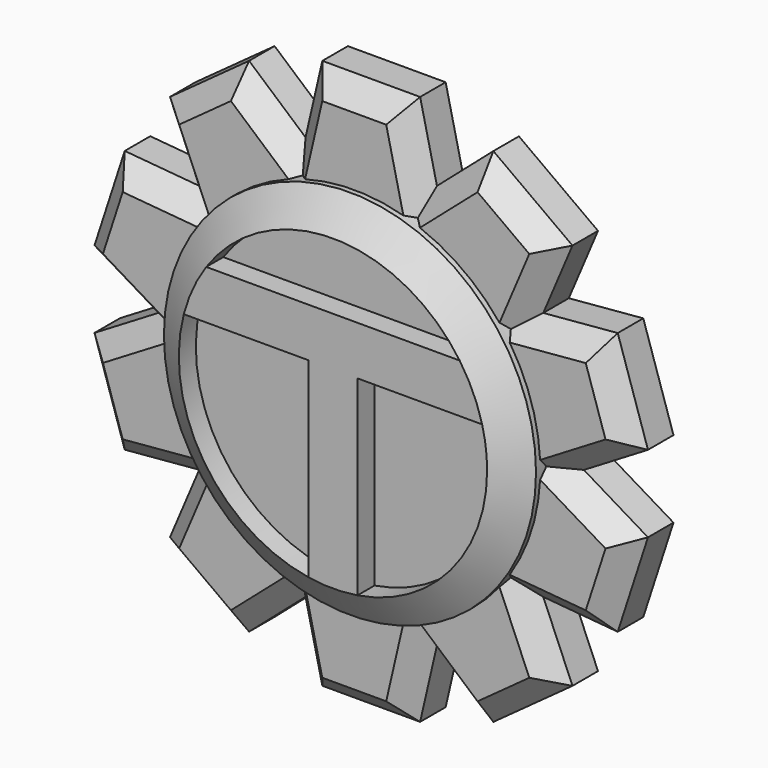
from build123d import *

# Parameters (mm, degrees)
F1_DEPTH = 6.35
F2_SIZE  = 2.54
F3_R     = 22.225
F4_DEPTH = 3.175
F5_SIZE2 = 2.54
F5_SIZE  = 3.81
F7_DEPTH = 2.54


with BuildPart() as f1:
    # F0 (on Front) → F1 (new body)
    with BuildSketch(Plane.XZ):
        with BuildLine():
            ThreePointArc((20.5490316571, -14.9297454082), (24.1568355139, -7.8490316571), (25.4, 0))
            ThreePointArc((25.4, 0), (24.1568355139, 7.8490316571), (20.5490316571, 14.9297454082))
            ThreePointArc((20.5490316571, 14.9297454082), (14.9297454082, 20.5490316571), (7.8490316571, 24.1568355139))
            ThreePointArc((7.8490316571, 24.1568355139), (0, 25.4), (-7.8490316571, 24.1568355139))
            ThreePointArc((-7.8490316571, 24.1568355139), (-14.9297454082, 20.5490316571), (-20.5490316571, 14.9297454082))
            ThreePointArc((-20.5490316571, 14.9297454082), (-24.1568355139, 7.8490316571), (-25.4, 0))
            ThreePointArc((-25.4, 0), (-24.1568355139, -7.8490316571), (-20.5490316571, -14.9297454082))
            ThreePointArc((-20.5490316571, -14.9297454082), (-14.9297454082, -20.5490316571), (-7.8490316571, -24.1568355139))
            ThreePointArc((-7.8490316571, -24.1568355139), (0, -25.4), (7.8490316571, -24.1568355139))
            ThreePointArc((7.8490316571, -24.1568355139), (14.9297454082, -20.5490316571), (20.5490316571, -14.9297454082))
        make_face()
        with BuildLine():
            Line((33.055969229, -4.6001704102), (25.4, 0))
            ThreePointArc((25.4, 0), (24.1568355139, -7.8490316571), (20.5490316571, -14.9297454082))
            Line((20.5490316571, -14.9297454082), (29.4467531969, -15.7081951742))
            Line((29.4467531969, -15.7081951742), (33.055969229, -4.6001704102))
        make_face()
        with BuildLine():
            ThreePointArc((20.5490316571, 14.9297454082), (24.1568355139, 7.8490316571), (25.4, 0))
            Line((25.4, 0), (33.055969229, 4.6001704102))
            Line((33.055969229, 4.6001704102), (29.4467531969, 15.7081951742))
            Line((29.4467531969, 15.7081951742), (20.5490316571, 14.9297454082))
        make_face()
        with BuildLine():
            ThreePointArc((7.8490316571, 24.1568355139), (14.9297454082, 20.5490316571), (20.5490316571, 14.9297454082))
            Line((20.5490316571, 14.9297454082), (24.0389285466, 23.1514272519))
            Line((24.0389285466, 23.1514272519), (14.589878302, 30.0165641039))
            Line((14.589878302, 30.0165641039), (7.8490316571, 24.1568355139))
        make_face()
        with BuildLine():
            Line((24.0389285466, -23.1514272519), (20.5490316571, -14.9297454082))
            ThreePointArc((20.5490316571, -14.9297454082), (14.9297454082, -20.5490316571), (7.8490316571, -24.1568355139))
            Line((7.8490316571, -24.1568355139), (14.589878302, -30.0165641039))
            Line((14.589878302, -30.0165641039), (24.0389285466, -23.1514272519))
        make_face()
        with BuildLine():
            ThreePointArc((-7.8490316571, 24.1568355139), (0, 25.4), (7.8490316571, 24.1568355139))
            Line((7.8490316571, 24.1568355139), (5.8398342126, 32.8596257714))
            Line((5.8398342126, 32.8596257714), (-5.8398342126, 32.8596257714))
            Line((-5.8398342126, 32.8596257714), (-7.8490316571, 24.1568355139))
        make_face()
        with BuildLine():
            Line((5.8398342126, -32.8596257714), (7.8490316571, -24.1568355139))
            ThreePointArc((7.8490316571, -24.1568355139), (0, -25.4), (-7.8490316571, -24.1568355139))
            Line((-7.8490316571, -24.1568355139), (-5.8398342126, -32.8596257714))
            Line((-5.8398342126, -32.8596257714), (5.8398342126, -32.8596257714))
        make_face()
        with BuildLine():
            ThreePointArc((-20.5490316571, 14.9297454082), (-14.9297454082, 20.5490316571), (-7.8490316571, 24.1568355139))
            Line((-7.8490316571, 24.1568355139), (-14.589878302, 30.0165641039))
            Line((-14.589878302, 30.0165641039), (-24.0389285466, 23.1514272519))
            Line((-24.0389285466, 23.1514272519), (-20.5490316571, 14.9297454082))
        make_face()
        with BuildLine():
            Line((-14.589878302, -30.0165641039), (-7.8490316571, -24.1568355139))
            ThreePointArc((-7.8490316571, -24.1568355139), (-14.9297454082, -20.5490316571), (-20.5490316571, -14.9297454082))
            Line((-20.5490316571, -14.9297454082), (-24.0389285466, -23.1514272519))
            Line((-24.0389285466, -23.1514272519), (-14.589878302, -30.0165641039))
        make_face()
        with BuildLine():
            ThreePointArc((-25.4, 0), (-24.1568355139, 7.8490316571), (-20.5490316571, 14.9297454082))
            Line((-20.5490316571, 14.9297454082), (-29.4467531969, 15.7081951742))
            Line((-29.4467531969, 15.7081951742), (-33.055969229, 4.6001704102))
            Line((-33.055969229, 4.6001704102), (-25.4, 0))
        make_face()
        with BuildLine():
            Line((-29.4467531969, -15.7081951742), (-20.5490316571, -14.9297454082))
            ThreePointArc((-20.5490316571, -14.9297454082), (-24.1568355139, -7.8490316571), (-25.4, 0))
            Line((-25.4, 0), (-33.055969229, -4.6001704102))
            Line((-33.055969229, -4.6001704102), (-29.4467531969, -15.7081951742))
        make_face()
    extrude(amount=F1_DEPTH)

    # F2
    f2_edges = [f1.edges().sort_by_distance(p)[0] for p in [
        (-22.29398, -6.35, -19.040586),
        (-19.314403, -6.35, -26.583996),
        (-11.219455, -6.35, -27.0867),
        (-6.844433, -6.35, -28.508231),
        (0, -6.35, -32.859626),
        (6.844433, -6.35, -28.508231),
        (11.219455, -6.35, -27.0867),
        (19.314403, -6.35, -26.583996),
        (22.29398, -6.35, -19.040586),
        (24.997892, -6.35, -15.31897),
        (31.251361, -6.35, -10.154183),
        (29.227985, -6.35, -2.300085),
        (29.227985, -6.35, 2.300085),
        (31.251361, -6.35, 10.154183),
        (24.997892, -6.35, 15.31897),
        (22.29398, -6.35, 19.040586),
        (19.314403, -6.35, 26.583996),
        (11.219455, -6.35, 27.0867),
        (6.844433, -6.35, 28.508231),
        (0, -6.35, 32.859626),
        (-6.844433, -6.35, 28.508231),
        (-11.219455, -6.35, 27.0867),
        (-19.314403, -6.35, 26.583996),
        (-22.29398, -6.35, 19.040586),
        (-24.997892, -6.35, 15.31897),
        (-31.251361, -6.35, 10.154183),
        (-29.227985, -6.35, 2.300085),
        (-29.227985, -6.35, -2.300085),
        (-31.251361, -6.35, -10.154183),
        (-24.997892, -6.35, -15.31897),
    ]]
    chamfer(f2_edges, length=F2_SIZE)

    # F3 (on face) → F4 (join, symmetric)
    with BuildSketch(Plane.XZ.offset(6.35)):
        Circle(F3_R)
    extrude(amount=F4_DEPTH, both=True)

    # F5
    f5_edges = [f1.edges().sort_by_distance(p)[0] for p in [
        (-22.225, -9.525, 0),
    ]]
    f5_side = f1.faces().sort_by_distance((0, -9.525, 0))[0]
    chamfer(f5_edges, length=F5_SIZE, length2=F5_SIZE2, reference=f5_side)

    # F6 (on face) → F7 (cut)
    with BuildSketch(Plane.XZ.offset(9.525)):
        with BuildLine():
            Line((-2.921, 4.6450305921), (-17.8195374743, 4.6450305921))
            ThreePointArc((-17.8195374743, 4.6450305921), (-15.4210632515, -10.0649407943), (-2.921, -18.1818586509))
            Line((-2.921, -18.1818586509), (-2.921, 4.6450305921))
        make_face()
        with BuildLine():
            ThreePointArc((15.1371864744, 10.4870305921), (0, 18.415), (-15.1371864744, 10.4870305921))
            Line((-15.1371864744, 10.4870305921), (15.1371864744, 10.4870305921))
        make_face()
        with BuildLine():
            Line((2.921, 4.6450305921), (2.921, -18.1818586509))
            ThreePointArc((2.921, -18.1818586509), (14.0161057359, -11.9440782399), (18.415, 0))
            ThreePointArc((18.415, 0), (18.2655277448, 2.3415211306), (17.8195374743, 4.6450305921))
            Line((17.8195374743, 4.6450305921), (2.921, 4.6450305921))
        make_face()
    extrude(amount=-F7_DEPTH, mode=Mode.SUBTRACT)


solid = f1.part
